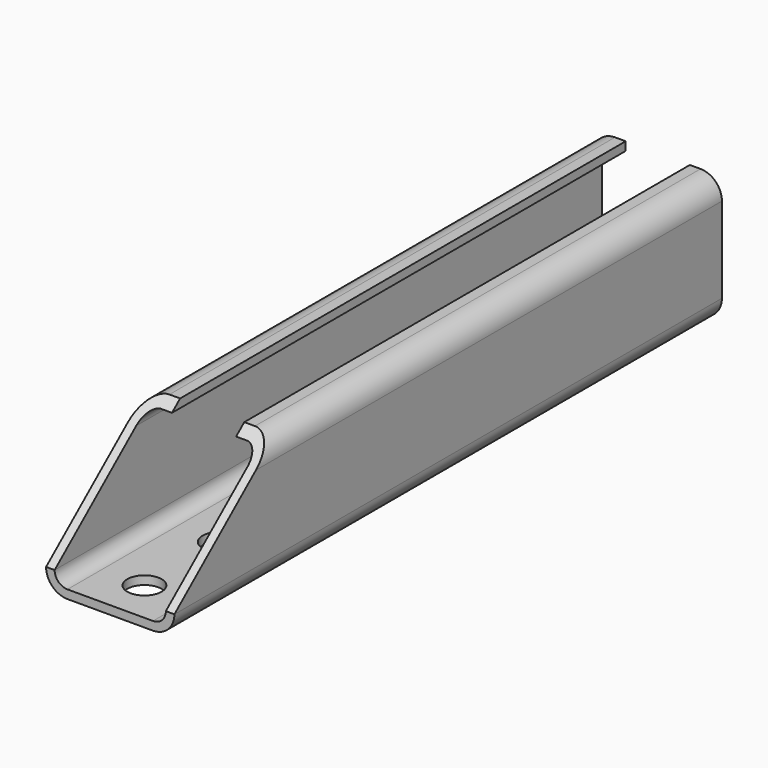
from build123d import *

# Parameters (mm, degrees)
F1_DEPTH = 160
F3_DEPTH = 32
F4_R     = 4
F5_DEPTH = 25


with BuildPart() as f1:
    # F0 (on Front) → F1 (new body)
    with BuildSketch(Plane.XZ):
        with BuildLine():
            ThreePointArc((-15.946916, -7.519089), (-17.411383, -3.983555), (-20.946916, -2.519089))
            Line((-20.946916, -2.519089), (-23.446916, -2.519089))
            Line((-23.446916, -2.519089), (-23.446916, -4.519089))
            Line((-23.446916, -4.519089), (-20.946916, -4.519089))
            ThreePointArc((-20.946916, -4.519089), (-18.825596, -5.397769), (-17.946916, -7.519089))
            Line((-17.946916, -7.519089), (-17.946916, -27.519089))
            ThreePointArc((-17.946916, -27.519089), (-18.825596, -29.640409), (-20.946916, -30.519089))
            Line((-20.946916, -30.519089), (-40.946916, -30.519089))
            ThreePointArc((-40.946916, -30.519089), (-43.068237, -29.640409), (-43.946916, -27.519089))
            Line((-43.946916, -27.519089), (-43.946916, -7.519089))
            ThreePointArc((-43.946916, -7.519089), (-43.068237, -5.397769), (-40.946916, -4.519089))
            Line((-40.946916, -4.519089), (-38.446916, -4.519089))
            Line((-38.446916, -4.519089), (-38.446916, -2.519089))
            Line((-38.446916, -2.519089), (-40.946916, -2.519089))
            ThreePointArc((-40.946916, -2.519089), (-44.48245, -3.983555), (-45.946916, -7.519089))
            Line((-45.946916, -7.519089), (-45.946916, -27.519089))
            ThreePointArc((-45.946916, -27.519089), (-44.48245, -31.054623), (-40.946916, -32.519089))
            Line((-40.946916, -32.519089), (-20.946916, -32.519089))
            ThreePointArc((-20.946916, -32.519089), (-17.411383, -31.054623), (-15.946916, -27.519089))
            Line((-15.946916, -27.519089), (-15.946916, -7.519089))
        make_face()
    extrude(amount=F1_DEPTH)

    # F2 (on face) → F3 (cut)
    with BuildSketch(Plane(origin=(-45.946916, 0, 0), x_dir=(0, -1, 0), z_dir=(-1, 0, 0))):
        Polygon((121.249738, 4.996242), (160, -27.519089), (160, 4.996242), align=None)
    extrude(amount=-F3_DEPTH, mode=Mode.SUBTRACT)

    # F4 (on face) → F5 (cut)
    with BuildSketch(Plane(origin=(0, 0, -32.519089), x_dir=(1, 0, 0), z_dir=(0, 0, -1))):
        with Locations((-30.946916, 150)):
            Circle(F4_R)
        with Locations((-30.946916, 128)):
            Circle(F4_R)
    extrude(amount=-F5_DEPTH, mode=Mode.SUBTRACT)


solid = f1.part
